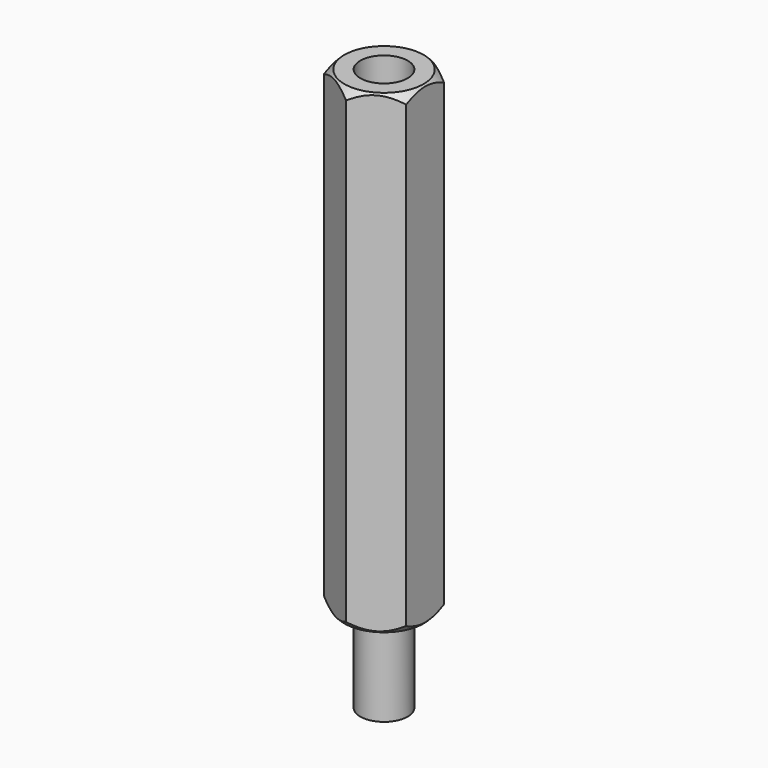
from build123d import *

# Parameters (mm, degrees)
PAD_DEPTH    = 15
SKETCH001_R  = 1.5
POCKET_DEPTH = 15
SKETCH002_R  = 1.5
PAD001_DEPTH = 5.5


with BuildPart() as body001:
    # Sketch003 → Revolution (revolve)
    with BuildSketch(Plane.YZ):
        Polygon((2, 15.5), (5, 15.5), (5, -15.5), (2, -15.5), (3.923501, -13.576499), (3.923501, 13.576499), align=None)
    revolve(axis=Axis((0, 0, 0), (0, 0, 1)))


with BuildPart() as cut:
    # Sketch → Pad (new body, symmetric)
    with BuildSketch(Plane.XY):
        Polygon((2.6, 1.501111), (0, 3.002221), (-2.6, 1.501111), (-2.6, -1.501111), (0, -3.002221), (2.6, -1.501111), align=None)
    extrude(amount=PAD_DEPTH, both=True)

    # Sketch001 (on Face8 of Pad) → Pocket (cut)
    with BuildSketch(Plane.XY.offset(15)):
        Circle(SKETCH001_R)
    extrude(amount=-POCKET_DEPTH, mode=Mode.SUBTRACT)

    # Sketch002 (on Face4 of Pocket) → Pad001 (join)
    with BuildSketch(Plane(origin=(0, 0, -15), x_dir=(1, 0, 0), z_dir=(0, 0, -1))):
        Circle(SKETCH002_R)
    extrude(amount=PAD001_DEPTH)

    # Cut: cut Body001
    add(body001.part, mode=Mode.SUBTRACT)


solid = cut.part
